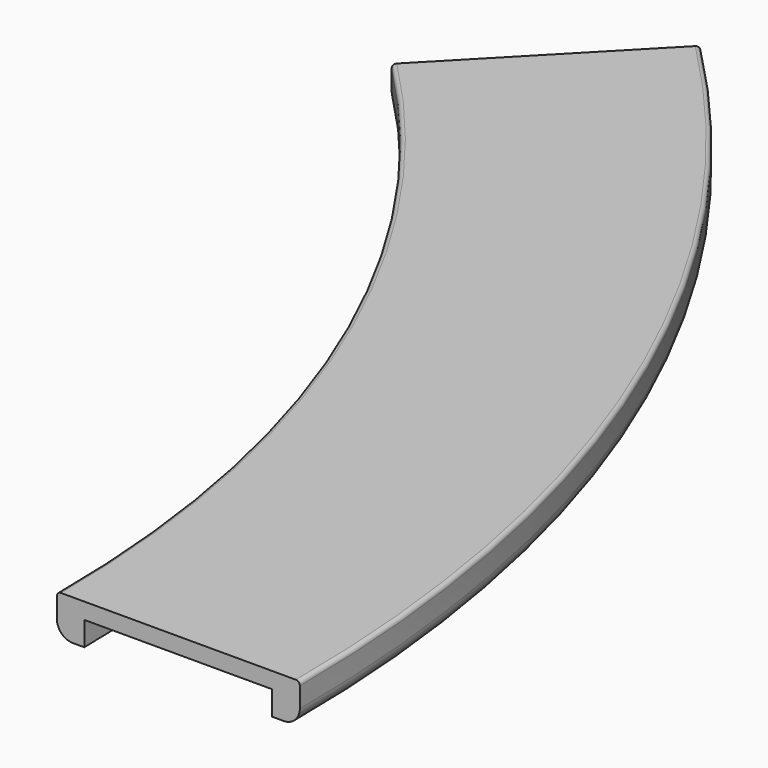
from build123d import *

# Parameters (mm, degrees)
F1_DEPTH = 12.7
F2_DEPTH = 7.62
F3_R     = 5.08
F4_R     = 5.08
F5_R     = 1.27
F6_R     = 1.27


with BuildPart() as f1:
    # F0 (on Top) → F1 (new body)
    with BuildSketch(Plane.XY):
        with BuildLine():
            ThreePointArc((274.3839541464, 271.162187256), (356.8357568685, 146.5732878479), (385.7661028272, 0))
            Line((385.7661028272, 0), (394.4020265055, 0))
            ThreePointArc((394.4020265055, 0), (364.7896986096, 149.9381015618), (280.3993957424, 277.3610235395))
            Line((280.3993957424, 277.3610235395), (274.3839541464, 271.162187256))
        make_face()
        with BuildLine():
            ThreePointArc((280.3993957424, 277.3610235395), (364.7896986096, 149.9381015618), (394.4020265055, 0))
            Line((394.4020265055, 0), (453.5602591088, 0))
            ThreePointArc((453.5602591088, 0), (419.2757542113, 172.9877179841), (321.6053535703, 319.8232405529))
            Line((321.6053535703, 319.8232405529), (280.3993957424, 277.3610235395))
        make_face()
        with BuildLine():
            ThreePointArc((321.6053535703, 319.8232405529), (419.2757542113, 172.9877179841), (453.5602591088, 0))
            Line((453.5602591088, 0), (462.3607499635, 0))
            ThreePointArc((462.3607499635, 0), (427.3811495561, 176.4165981731), (327.7350659564, 326.1398314365))
            Line((327.7350659564, 326.1398314365), (321.6053535703, 319.8232405529))
        make_face()
    extrude(amount=F1_DEPTH)

    # F0 (on Top) → F2 (cut)
    with BuildSketch(Plane.XY):
        with BuildLine():
            ThreePointArc((280.3993957424, 277.3610235395), (364.7896986096, 149.9381015618), (394.4020265055, 0))
            Line((394.4020265055, 0), (453.5602591088, 0))
            ThreePointArc((453.5602591088, 0), (419.2757542113, 172.9877179841), (321.6053535703, 319.8232405529))
            Line((321.6053535703, 319.8232405529), (280.3993957424, 277.3610235395))
        make_face()
        with BuildLine():
            Line((453.5602591088, 0), (394.4020265055, 0))
            ThreePointArc((394.4020265055, 0), (-364.7896986096, -149.9381015618), (280.3993957424, 277.3610235395))
            Line((280.3993957424, 277.3610235395), (321.6053535703, 319.8232405529))
            ThreePointArc((321.6053535703, 319.8232405529), (-419.2757542113, -172.9877179841), (453.5602591088, 0))
        make_face()
    extrude(amount=F2_DEPTH, mode=Mode.SUBTRACT)

    # F3
    f3_edges = [f1.edges().sort_by_distance(p)[0] for p in [
        (427.38115, 176.416598, 0),
    ]]
    fillet(f3_edges, radius=F3_R)

    # F4
    f4_edges = [f1.edges().sort_by_distance(p)[0] for p in [
        (356.835757, 146.573288, 0),
    ]]
    fillet(f4_edges, radius=F4_R)

    # F5
    f5_edges = [f1.edges().sort_by_distance(p)[0] for p in [
        (427.38115, 176.416598, 12.7),
    ]]
    fillet(f5_edges, radius=F5_R)

    # F6
    f6_edges = [f1.edges().sort_by_distance(p)[0] for p in [
        (356.835757, 146.573288, 12.7),
    ]]
    fillet(f6_edges, radius=F6_R)


solid = f1.part
